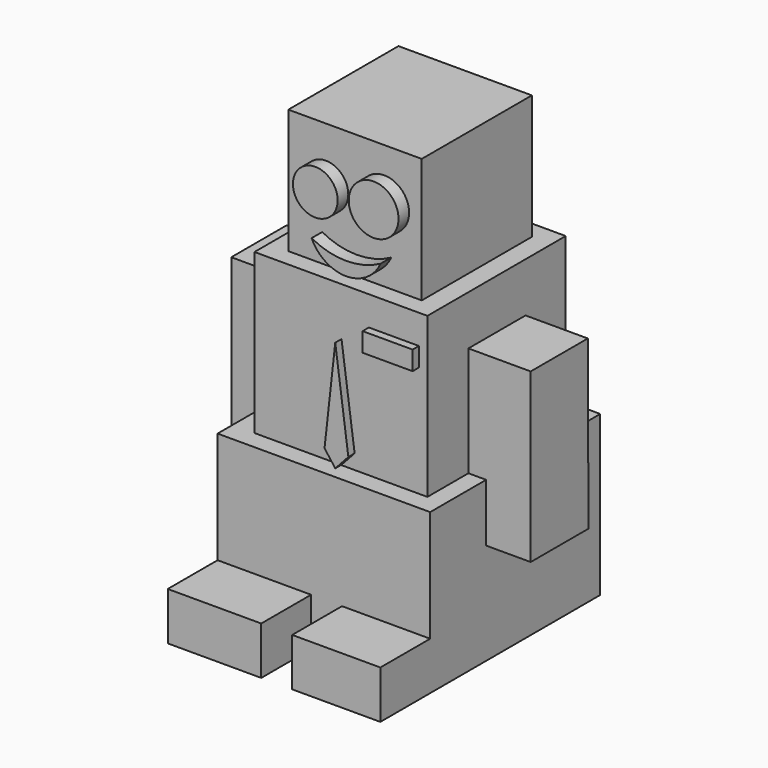
from build123d import *

# Parameters (mm, degrees)
F0_W      = 86.6950079799
F0_H      = 86.6950042546
F1_DEPTH  = 64.9986
F2_W      = 70.5124139786
F2_H      = 70.5124102533
F3_DEPTH  = 64.9986
F4_W      = 54.395288229
F4_H      = 56.1221279204
F5_DEPTH  = 50.8
F6_R      = 9.1186421801
F6_R_2    = 10.1513194638
F6_W      = 20.3841309994
F6_H      = 7.7653825283
F7_DEPTH  = 25.4
F8_W      = 29.1201900691
F8_H      = 44.812363273
F9_DEPTH  = 25.4
F10_W     = 29.5586548746
F10_H     = 23.6200721203
F11_DEPTH = 25.4
F12_W     = 28.1495144591
F12_H     = 46.7537163557
F12_H_2   = 31.3854509233
F13_DEPTH = 25.4
F15_DEPTH = 25.4
F16_W     = 38.1280947477
F16_H     = 19.5383913815
F16_W_2   = 35.9481638297
F17_DEPTH = 25.4
F19_DEPTH = 20
F18_W     = 20.3841309994
F18_H     = 7.7653825283
F20_DEPTH = 15


with BuildPart() as f1:
    # F0 (on Top) → F1 (new body)
    with BuildSketch(Plane.XY):
        with Locations((-0.8532218635, 5.3543392569)):
            Rectangle(F0_W, F0_H)
    extrude(amount=F1_DEPTH)

    # F2 (on face) → F3 (join)
    with BuildSketch(Plane.XY.offset(64.9986)):
        with Locations((0, 4.8926975578)):
            Rectangle(F2_W, F2_H)
    extrude(amount=F3_DEPTH)

    # F4 (on face) → F5 (join)
    with BuildSketch(Plane.XY.offset(129.9972)):
        with Locations((0, 4.8926975578)):
            Rectangle(F4_W, F4_H)
    extrude(amount=F5_DEPTH)

    # F6 (on face) → F7 (join)
    with BuildSketch(Plane.XZ.offset(23.1683664024)):
        with Locations((-11.8907419965, 158.3446115255)):
            Circle(F6_R)
        with Locations((11.8907429278, 159.8006188869)):
            Circle(F6_R_2)
        Polygon((5.5813710205, 70.9840506315), (0.2426664723, 110.2963015437), (0.2426664723, 65.1600137353), align=None)
        Polygon((0.2426664723, 65.1600137353), (0.2426664723, 110.2963015437), (-4.1253603995, 70.9840506315), align=None)
        with Locations((21.5974720195, 114.1789928079)):
            Rectangle(F6_W, F6_H)
    extrude(amount=F7_DEPTH)

    # F8 (on face) → F9 (join)
    with BuildSketch(Plane.YZ.offset(35.2562069893)):
        with Locations((5.0960322842, 87.4047816365)):
            Rectangle(F8_W, F8_H)
    extrude(amount=F9_DEPTH)

    # F10 (on face) → F11 (join)
    with BuildSketch(Plane.YZ.offset(35.2562069893)):
        with Locations((5.3152646869, 53.1885639399)):
            Rectangle(F10_W, F10_H)
    extrude(amount=F11_DEPTH)

    # F12 (on face) → F13 (join)
    with BuildSketch(Plane(origin=(-35.2562069893, 0, 0), x_dir=(0, -1, 0), z_dir=(-1, 0, 0))):
        with Locations((-3.6400225945, 88.3754581779)):
            Rectangle(F12_W, F12_H)
        with Locations((-3.6400225945, 49.3058745384)):
            Rectangle(F12_W, F12_H_2)
    extrude(amount=F13_DEPTH)

    # F14 (on face) → F15 (join)
    with BuildSketch(Plane.XZ.offset(23.1683664024)):
        with BuildLine():
            ThreePointArc((14.7383239205, 141.318809308), (0.6673846717, 137.7586777296), (-13.3936218917, 141.3578391075))
            ThreePointArc((-13.3936218917, 141.3578391075), (0.6597323084, 132.2429981429), (14.7383239205, 141.318809308))
        make_face()
    extrude(amount=F15_DEPTH)

    # F16 (on face) → F17 (join)
    with BuildSketch(Plane.XZ.offset(37.9931628704)):
        with Locations((-25.1366784796, 9.7691956908)):
            Rectangle(F16_W, F16_H)
        with Locations((24.5202002116, 9.7691956908)):
            Rectangle(F16_W_2, F16_H)
    extrude(amount=F17_DEPTH)

    # F19 (cut): faces of the model
    f19_faces = [f1.faces().sort_by_distance(p)[0] for p in [
        (-11.8907419965, -48.5683664024, 158.3446115255),
        (11.8907429278, -48.5683664024, 159.8006188869),
        (0.665272449, -48.5683664024, 136.2362272974),
    ]]
    extrude(f19_faces, amount=-F19_DEPTH, mode=Mode.SUBTRACT)

    # F18 (on face) → F20 (cut)
    with BuildSketch(Plane.XZ.offset(48.5683664024)):
        Polygon((5.5813710205, 70.9840506315), (0.2426664723, 110.2963015437), (-4.1253603995, 70.9840506315), (0.2426664723, 65.1600137353), align=None)
        with Locations((21.5974720195, 114.1789928079)):
            Rectangle(F18_W, F18_H)
    extrude(amount=-F20_DEPTH, mode=Mode.SUBTRACT)


solid = f1.part
